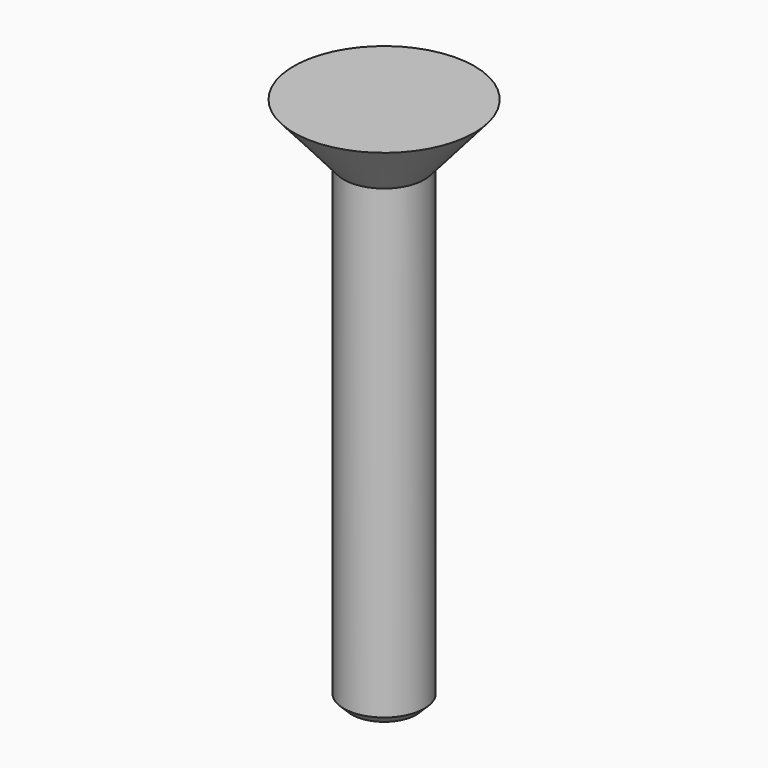
from build123d import *

# Parameters (mm, degrees)
F2_SIZE = 0.4826


with BuildPart() as f1:
    # F0 (on Front) → F1 (revolve)
    with BuildSketch(Plane.XZ):
        Polygon((5.3975, 3.433275), (0, 3.433275), (0, -28.316725), (2.413, -28.316725), (2.413, 0), align=None)
    revolve(axis=Axis((0, 0, -1.467701), (0, 0, -1)))

    # F2
    f2_edges = [f1.edges().sort_by_distance(p)[0] for p in [
        (-2.413, 0, -28.316725),
    ]]
    chamfer(f2_edges, length=F2_SIZE)


solid = f1.part
